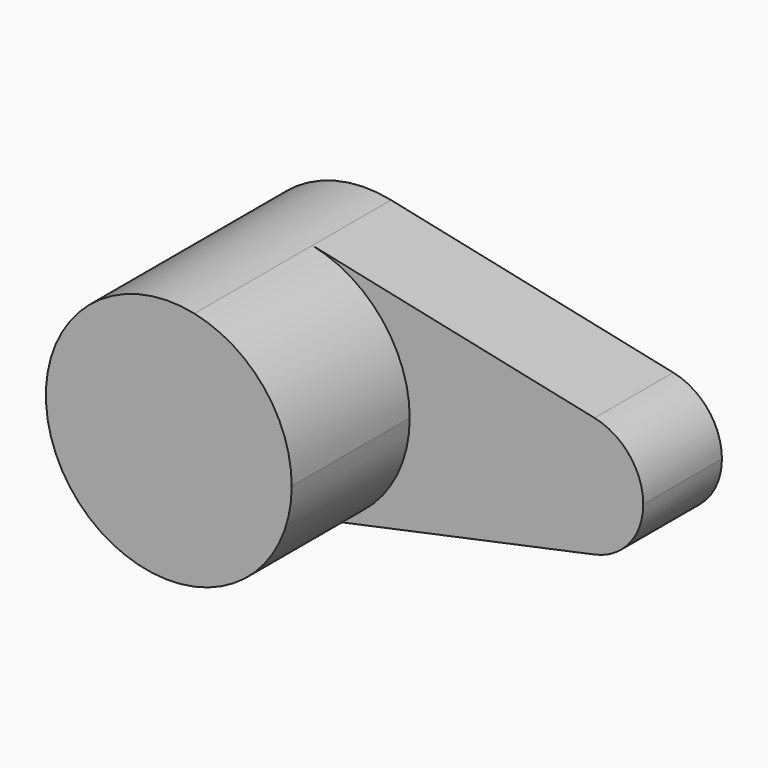
from build123d import *

# Parameters (mm, degrees)
F1_DEPTH = 20
F2_DEPTH = 50


with BuildPart() as f1:
    # F0 (on Front) → F1 (new body)
    with BuildSketch(Plane.XZ):
        with BuildLine():
            ThreePointArc((5.208333, -24.451447), (19.43204, -15.728822), (25, 0))
            ThreePointArc((25, 0), (19.43204, 15.728822), (5.208333, 24.451447))
            ThreePointArc((5.208333, 24.451447), (-25, 0), (5.208333, -24.451447))
        make_face()
        with BuildLine():
            ThreePointArc((5.208333, 24.451447), (19.43204, 15.728822), (25, 0))
            ThreePointArc((25, 0), (19.43204, -15.728822), (5.208333, -24.451447))
            Line((5.208333, -24.451447), (62.604167, -12.225724))
            ThreePointArc((62.604167, -12.225724), (47.5, 0), (62.604167, 12.225724))
            Line((62.604167, 12.225724), (5.208333, 24.451447))
        make_face()
        with BuildLine():
            ThreePointArc((72.5, 0), (69.71602, 7.864411), (62.604167, 12.225724))
            ThreePointArc((62.604167, 12.225724), (47.5, 0), (62.604167, -12.225724))
            ThreePointArc((62.604167, -12.225724), (69.71602, -7.864411), (72.5, 0))
        make_face()
    extrude(amount=F1_DEPTH)

    # F0 (on Front) → F2 (join)
    with BuildSketch(Plane.XZ):
        with BuildLine():
            ThreePointArc((5.208333, -24.451447), (19.43204, -15.728822), (25, 0))
            ThreePointArc((25, 0), (19.43204, 15.728822), (5.208333, 24.451447))
            ThreePointArc((5.208333, 24.451447), (-25, 0), (5.208333, -24.451447))
        make_face()
    extrude(amount=F2_DEPTH)


solid = f1.part
